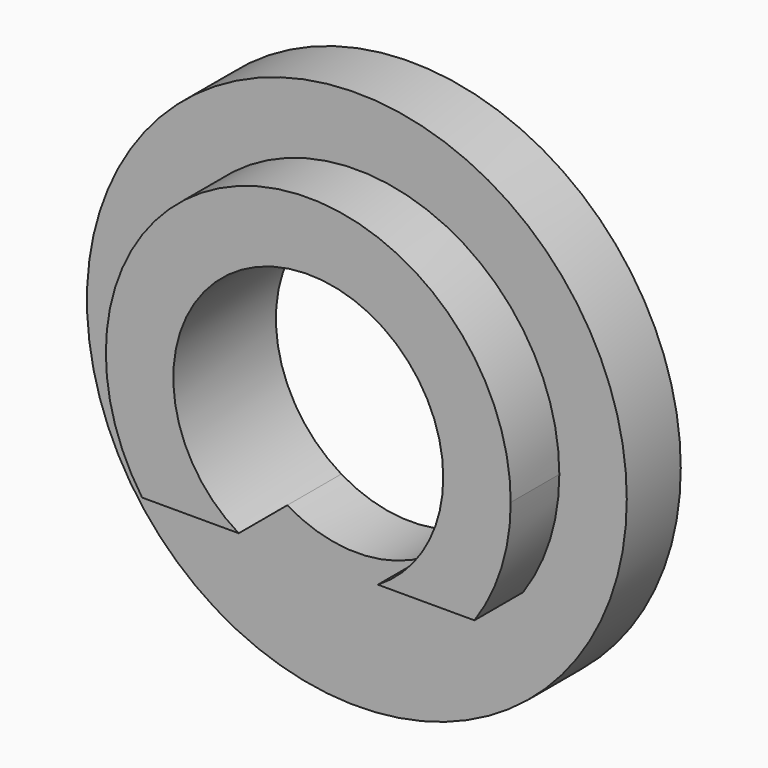
from build123d import *

# Parameters (mm, degrees)
F1_DEPTH = 3.8
F0_R     = 8
F2_DEPTH = 2


with BuildPart() as f1:
    # F0 (on Front) → F1 (new body)
    with BuildSketch(Plane.XZ):
        with BuildLine():
            ThreePointArc((-2.061627, -3.427782), (-1.968945, 3.481846), (4, 0))
            ThreePointArc((4, 0), (3.481846, -1.968945), (2.061627, -3.427782))
            Line((2.061627, -3.427782), (4.92446, -3.427782))
            ThreePointArc((4.92446, -3.427782), (5.724804, -1.796279), (6, 0))
            ThreePointArc((6, 0), (-1.796279, 5.724804), (-4.92446, -3.427782))
            Line((-4.92446, -3.427782), (-2.061627, -3.427782))
        make_face()
    extrude(amount=F1_DEPTH)

    # F0 (on Front) → F2 (join)
    with BuildSketch(Plane.XZ):
        Circle(F0_R)
        with BuildLine():
            ThreePointArc((4.92446, -3.427782), (0, -6), (-4.92446, -3.427782))
            ThreePointArc((-4.92446, -3.427782), (-1.796279, 5.724804), (6, 0))
            ThreePointArc((6, 0), (5.724804, -1.796279), (4.92446, -3.427782))
        make_face(mode=Mode.SUBTRACT)
        with BuildLine():
            ThreePointArc((-2.061627, -3.427782), (-1.968945, 3.481846), (4, 0))
            ThreePointArc((4, 0), (3.481846, -1.968945), (2.061627, -3.427782))
            Line((2.061627, -3.427782), (4.92446, -3.427782))
            ThreePointArc((4.92446, -3.427782), (5.724804, -1.796279), (6, 0))
            ThreePointArc((6, 0), (-1.796279, 5.724804), (-4.92446, -3.427782))
            Line((-4.92446, -3.427782), (-2.061627, -3.427782))
        make_face()
        with BuildLine():
            ThreePointArc((2.061627, -3.427782), (0, -4), (-2.061627, -3.427782))
            Line((-2.061627, -3.427782), (-4.92446, -3.427782))
            ThreePointArc((-4.92446, -3.427782), (0, -6), (4.92446, -3.427782))
            Line((4.92446, -3.427782), (2.061627, -3.427782))
        make_face()
    extrude(amount=F2_DEPTH)


solid = f1.part
